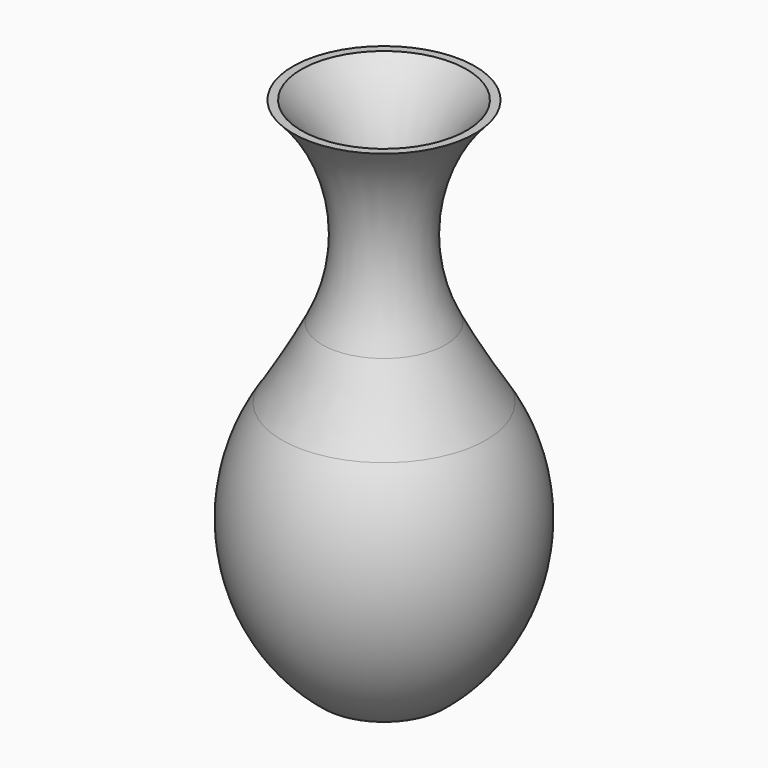
from build123d import *

# Parameters (mm, degrees)
THICKNESS_T = -1


with BuildPart() as part:
    # Sketch → Revolution (revolve)
    with BuildSketch(Plane.YZ):
        with BuildLine():
            Line((0, 85), (-15, 85))
            ThreePointArc((-10.160316, 52.785134), (-7.399365, 69.670885), (-15, 85))
            ThreePointArc((-16.84999, 41.158526), (-13.363124, 46.89011), (-10.160316, 52.785134))
            ThreePointArc((-16.84999, 41.158526), (-21.358302, 19.258927), (-10, 0))
            Line((-10, 0), (0, 0))
            Line((0, 0), (0, 85))
        make_face()
    revolve(axis=Axis((0, 0, 0), (0, 0, 1)))

    # Thickness
    thickness_openings = [part.faces().sort_by_distance(p)[0] for p in [
        (0, 0, 85),
    ]]
    offset(amount=THICKNESS_T, openings=thickness_openings)


solid = part.part
